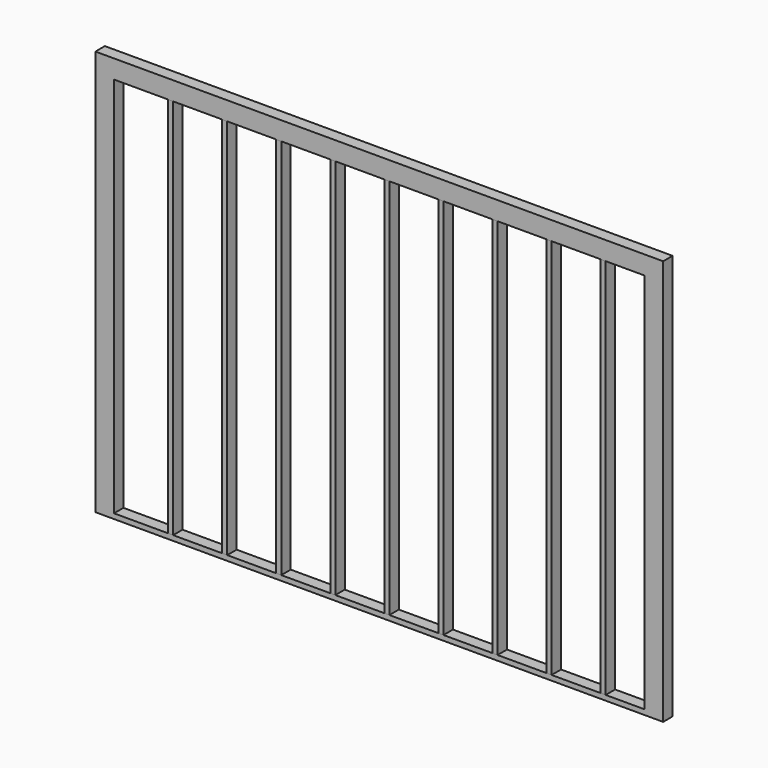
from build123d import *

# Parameters (mm, degrees)
F0_W     = 4267.2
F0_H     = 3048
F1_DEPTH = 88.9
F2_W     = 3987.8
F2_H     = 2908.3
F3_DEPTH = 88.901
F4_W     = 3987.8
F4_H     = 38.1
F5_DEPTH = 88.9
F6_W     = 38.1
F6_H     = 2870.2
F7_DEPTH = 88.9
F8_SCALE = 0.0114810563


with BuildPart() as f1:
    # F0 (on Front) → F1 (new body)
    with BuildSketch(Plane.XZ):
        with Locations((-2133.6, 1524)):
            Rectangle(F0_W, F0_H)
    extrude(amount=F1_DEPTH)

    # F2 (on face) → F3 (cut, through all)
    with BuildSketch(Plane(origin=(0, 0, 0), x_dir=(-1, 0, 0), z_dir=(0, 1, 0))):
        with Locations((2133.6, 1454.15)):
            Rectangle(F2_W, F2_H)
    extrude(amount=-F3_DEPTH, mode=Mode.SUBTRACT)

    # F4 (on face) → F5 (join)
    with BuildSketch(Plane.XZ.offset(88.9)):
        with Locations((-2133.6, 19.05)):
            Rectangle(F4_W, F4_H)
    extrude(amount=-F5_DEPTH)


with BuildPart() as f7:
    # F6 (on face) → F7 (new body)
    with BuildSketch(Plane.XZ.offset(88.9)):
        with Locations((-3702.05, 1473.2)):
            Rectangle(F6_W, F6_H)
    extrude(amount=-F7_DEPTH)


with BuildPart() as f7b:
    # F6 (on face) → F7, piece 2 (new body)
    with BuildSketch(Plane.XZ.offset(88.9)):
        with Locations((-3295.65, 1473.2)):
            Rectangle(F6_W, F6_H)
    extrude(amount=-F7_DEPTH)


with BuildPart() as f7c:
    # F6 (on face) → F7, piece 3 (new body)
    with BuildSketch(Plane.XZ.offset(88.9)):
        with Locations((-2889.25, 1473.2)):
            Rectangle(F6_W, F6_H)
    extrude(amount=-F7_DEPTH)


with BuildPart() as f7d:
    # F6 (on face) → F7, piece 4 (new body)
    with BuildSketch(Plane.XZ.offset(88.9)):
        with Locations((-2482.85, 1473.2)):
            Rectangle(F6_W, F6_H)
    extrude(amount=-F7_DEPTH)


with BuildPart() as f7e:
    # F6 (on face) → F7, piece 5 (new body)
    with BuildSketch(Plane.XZ.offset(88.9)):
        with Locations((-2076.45, 1473.2)):
            Rectangle(F6_W, F6_H)
    extrude(amount=-F7_DEPTH)


with BuildPart() as f7f:
    # F6 (on face) → F7, piece 6 (new body)
    with BuildSketch(Plane.XZ.offset(88.9)):
        with Locations((-1670.05, 1473.2)):
            Rectangle(F6_W, F6_H)
    extrude(amount=-F7_DEPTH)


with BuildPart() as f7g:
    # F6 (on face) → F7, piece 7 (new body)
    with BuildSketch(Plane.XZ.offset(88.9)):
        with Locations((-1263.65, 1473.2)):
            Rectangle(F6_W, F6_H)
    extrude(amount=-F7_DEPTH)


with BuildPart() as f7h:
    # F6 (on face) → F7, piece 8 (new body)
    with BuildSketch(Plane.XZ.offset(88.9)):
        with Locations((-857.25, 1473.2)):
            Rectangle(F6_W, F6_H)
    extrude(amount=-F7_DEPTH)


with BuildPart() as f7i:
    # F6 (on face) → F7, piece 9 (new body)
    with BuildSketch(Plane.XZ.offset(88.9)):
        with Locations((-450.85, 1473.2)):
            Rectangle(F6_W, F6_H)
    extrude(amount=-F7_DEPTH)


with BuildPart() as f7g_1:
    # F8: moved
    add(f7g.part.scale(F8_SCALE))


with BuildPart() as f7i_1:
    # F8: moved
    add(f7i.part.scale(F8_SCALE))


with BuildPart() as f7f_1:
    # F8: moved
    add(f7f.part.scale(F8_SCALE))


with BuildPart() as f7d_1:
    # F8: moved
    add(f7d.part.scale(F8_SCALE))


with BuildPart() as f7e_1:
    # F8: moved
    add(f7e.part.scale(F8_SCALE))


with BuildPart() as f7c_1:
    # F8: moved
    add(f7c.part.scale(F8_SCALE))


with BuildPart() as f7_1:
    # F8: moved
    add(f7.part.scale(F8_SCALE))


with BuildPart() as f1_1:
    # F8: moved
    add(f1.part.scale(F8_SCALE))


with BuildPart() as f7h_1:
    # F8: moved
    add(f7h.part.scale(F8_SCALE))


with BuildPart() as f7b_1:
    # F8: moved
    add(f7b.part.scale(F8_SCALE))


solid = Compound([f7g_1.part, f7i_1.part, f7f_1.part, f7d_1.part, f7e_1.part, f7c_1.part, f7_1.part, f1_1.part, f7h_1.part, f7b_1.part])
